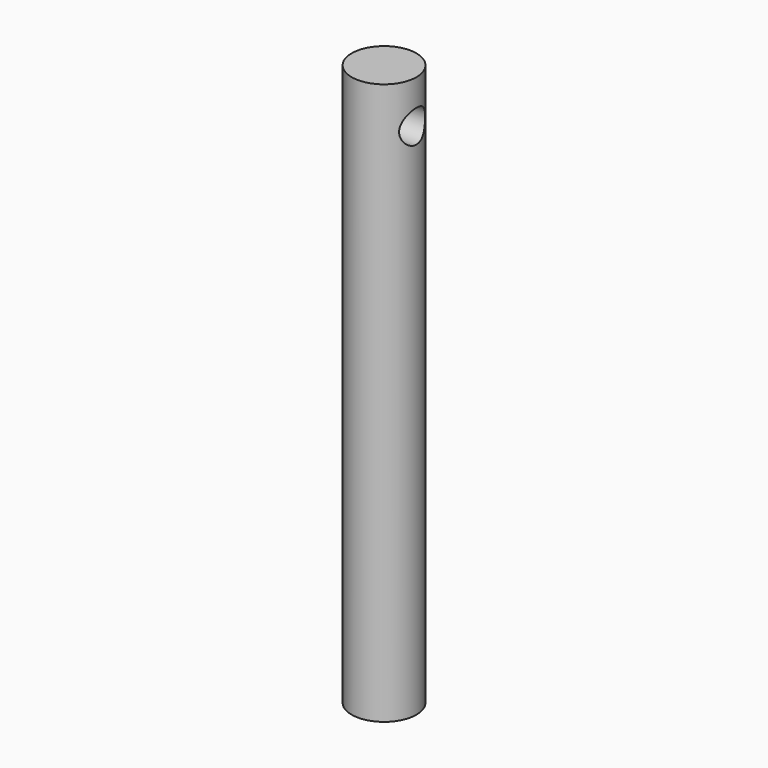
from build123d import *

# Parameters (mm, degrees)
F0_R          = 9.525
F1_DEPTH      = 165.1
F2_R          = 4.7625
F3_DEPTH      = 9.526
F3_DEPTH_BACK = 9.526


with BuildPart() as f1:
    # F0 (on Top) → F1 (new body)
    with BuildSketch(Plane.XY):
        Circle(F0_R)
    extrude(amount=F1_DEPTH)

    # F2 (on Right) → F3 (cut, two sides)
    with BuildSketch(Plane.YZ) as f3_sk:
        with Locations((0, 152.4)):
            Circle(F2_R)
    extrude(amount=-F3_DEPTH, mode=Mode.SUBTRACT)
    extrude(f3_sk.sketch, amount=F3_DEPTH_BACK, mode=Mode.SUBTRACT)


solid = f1.part
